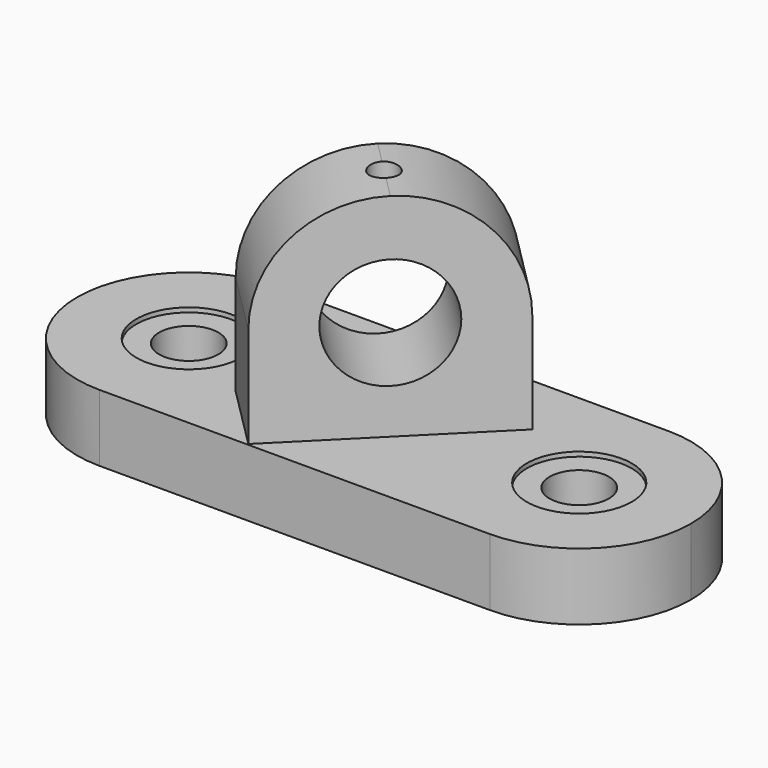
from build123d import *

# Parameters (mm, degrees)
F1_DEPTH  = 15.24
F2_R      = 11.938
F2_R_2    = 6.7437
F3_DEPTH  = 1.016
F4_DEPTH  = 15.241
F7_R      = 12.7
F8_DEPTH  = 10.16
F10_R     = 3.175
F11_DEPTH = 13.1042779758


with BuildPart() as f1:
    # F0 (on Top) → F1 (new body)
    with BuildSketch(Plane.XY):
        with BuildLine():
            ThreePointArc((44.45, 25.4), (19.05, 0), (44.45, -25.4))
            Line((44.45, -25.4), (44.45, 25.4))
        make_face()
        with BuildLine():
            Line((-44.45, -25.4), (44.45, -25.4))
            ThreePointArc((44.45, -25.4), (19.05, 0), (44.45, 25.4))
            Line((44.45, 25.4), (-44.45, 25.4))
            ThreePointArc((-44.45, 25.4), (-26.4894877579, 17.9605122421), (-19.05, 0))
            ThreePointArc((-19.05, 0), (-26.4894877579, -17.9605122421), (-44.45, -25.4))
        make_face()
        with BuildLine():
            Line((44.45, 25.4), (44.45, -25.4))
            ThreePointArc((44.45, -25.4), (62.4105122421, -17.9605122421), (69.85, 0))
            ThreePointArc((69.85, 0), (62.4105122421, 17.9605122421), (44.45, 25.4))
        make_face()
        with BuildLine():
            ThreePointArc((-44.45, 25.4), (-69.85, 0), (-44.45, -25.4))
            Line((-44.45, -25.4), (-44.45, 25.4))
        make_face()
        with BuildLine():
            Line((-44.45, 25.4), (-44.45, -25.4))
            ThreePointArc((-44.45, -25.4), (-26.4894877579, -17.9605122421), (-19.05, 0))
            ThreePointArc((-19.05, 0), (-26.4894877579, 17.9605122421), (-44.45, 25.4))
        make_face()
    extrude(amount=F1_DEPTH)

    # F2 (on face) → F3 (cut)
    with BuildSketch(Plane.XY.offset(15.24)):
        with Locations((44.45, 0)):
            Circle(F2_R)
        with Locations((44.45, 0)):
            Circle(F2_R_2, mode=Mode.SUBTRACT)
        with Locations((-44.45, 0)):
            Circle(F2_R)
        with Locations((-44.45, 0)):
            Circle(F2_R_2, mode=Mode.SUBTRACT)
    extrude(amount=-F3_DEPTH, mode=Mode.SUBTRACT)

    # F2 (on face) → F4 (cut, through all)
    with BuildSketch(Plane.XY.offset(15.24)):
        with Locations((44.45, 0)):
            Circle(F2_R_2)
        with Locations((-44.45, 0)):
            Circle(F2_R_2)
    extrude(amount=-F4_DEPTH, mode=Mode.SUBTRACT)

    # F7 (on line) → F8 (join, symmetric)
    with BuildSketch(Plane(origin=(0, 0, 0), x_dir=(0.7071067812, 0.7071067812, 0), z_dir=(0.7071067812, -0.7071067812, 0))):
        with BuildLine():
            Line((-25.4, 38.1), (-25.4, 15.24))
            Line((-25.4, 15.24), (25.4, 15.24))
            Line((25.4, 15.24), (25.4, 38.1))
            ThreePointArc((25.4, 38.1), (17.9605122421, 56.0605122421), (0, 63.5))
            ThreePointArc((0, 63.5), (-17.9605122421, 56.0605122421), (-25.4, 38.1))
        make_face()
        with Locations((0, 38.1)):
            Circle(F7_R, mode=Mode.SUBTRACT)
    extrude(amount=F8_DEPTH, both=True)

    # F10 (on offset) → F11 (cut, through all)
    with BuildSketch(Plane.XY.offset(63.5)):
        Circle(F10_R)
    extrude(amount=-F11_DEPTH, mode=Mode.SUBTRACT)


solid = f1.part
